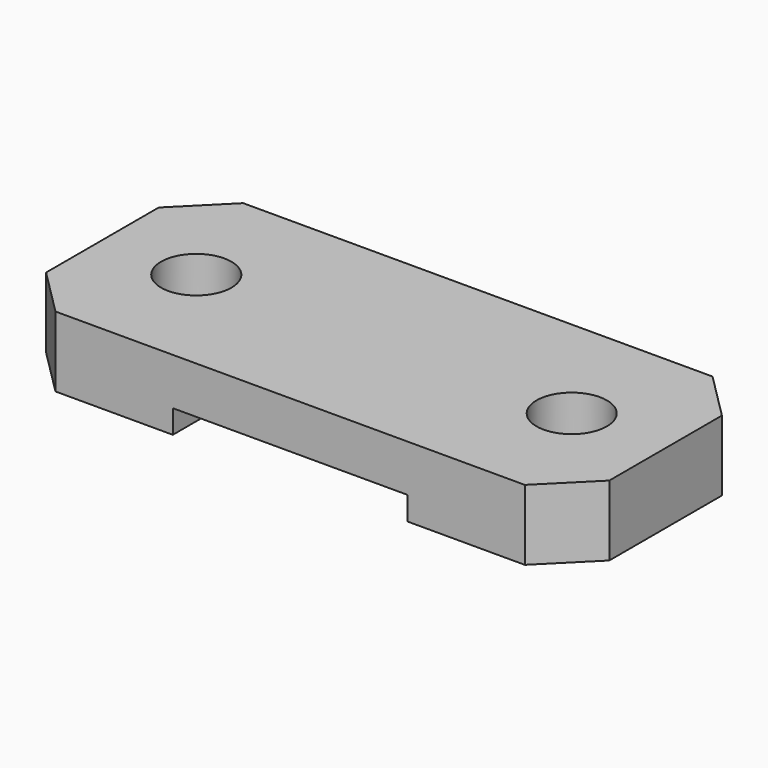
from build123d import *

# Parameters (mm, degrees)
CYLINDER013_R     = 1.5
CYLINDER013_DEPTH = 3
CYLINDER014_R     = 1.5
CYLINDER014_DEPTH = 3
BOX016_W          = 10
BOX016_H          = 10
BOX016_DEPTH      = 1
BOX015_W          = 24
BOX015_H          = 10
BOX015_DEPTH      = 3
CHAMFER001_SIZE   = 2


with BuildPart() as cylinder013:
    # Cylinder013 → Cylinder013 (new body)
    with BuildSketch(Plane(origin=(4, 5, 0), x_dir=(1, 0, 0), z_dir=(0, 0, 1))):
        Circle(CYLINDER013_R)
    extrude(amount=CYLINDER013_DEPTH)


with BuildPart() as fusion001002013:
    # Cylinder014 → Cylinder014 (new body)
    with BuildSketch(Plane(origin=(20, 5, 0), x_dir=(1, 0, 0), z_dir=(0, 0, 1))):
        Circle(CYLINDER014_R)
    extrude(amount=CYLINDER014_DEPTH)

    # Fusion001002013: union Cylinder013
    add(cylinder013.part)


with BuildPart() as cube016:
    # Box016 → Box016 (new body)
    with BuildSketch(Plane(origin=(7, 0, 0), x_dir=(1, 0, 0), z_dir=(0, 0, 1))):
        with Locations((5, 5)):
            Rectangle(BOX016_W, BOX016_H)
    extrude(amount=BOX016_DEPTH)


with BuildPart() as chamfer001:
    # Box015 → Box015 (new body)
    with BuildSketch(Plane.XY):
        with Locations((12, 5)):
            Rectangle(BOX015_W, BOX015_H)
    extrude(amount=BOX015_DEPTH)

    # Cut011: cut Cube016
    add(cube016.part, mode=Mode.SUBTRACT)

    # Cut012: cut Fusion001002013
    add(fusion001002013.part, mode=Mode.SUBTRACT)


with BuildPart() as chamfer001_1:
    # Cut012 placement: moved
    add(chamfer001.part.moved(Location((0, 3, 0))))

    # Chamfer001
    chamfer001_edges = [chamfer001_1.edges().sort_by_distance(p)[0] for p in [
        (0, 3, 1.5),
        (0, 13, 1.5),
        (24, 3, 1.5),
        (24, 13, 1.5),
    ]]
    chamfer(chamfer001_edges, length=CHAMFER001_SIZE)


solid = chamfer001_1.part
